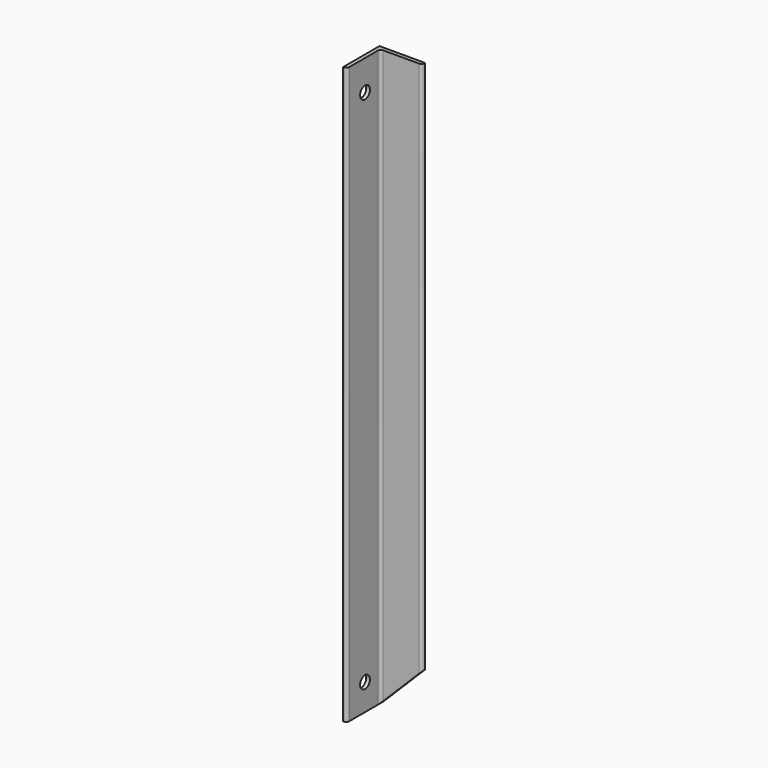
from build123d import *

# Parameters (mm, degrees)
F1_DEPTH = 482.6
F3_DEPTH = 76.201
F4_R     = 10.3124
F5_DEPTH = 76.201
F6_R     = 5.08


with BuildPart() as f1:
    # F0 (on Top) → F1 (new body, symmetric)
    with BuildSketch(Plane.XY):
        Polygon((0, 76.2), (0, 0), (6.35, 0), (6.35, 69.85), (76.2, 69.85), (76.2, 76.2), align=None)
    extrude(amount=F1_DEPTH, both=True)

    # F2 (on Front) → F3 (cut, through all)
    with BuildSketch(Plane.XZ):
        Polygon((84.518964, -404.431036), (6.35, -482.6), (84.518964, -482.6), align=None)
    extrude(amount=-F3_DEPTH, mode=Mode.SUBTRACT)

    # F4 (on Right) → F5 (cut, through all)
    with BuildSketch(Plane.YZ):
        with Locations((38.1, -438.15)):
            Circle(F4_R)
        with Locations((38.1, 431.8)):
            Circle(F4_R)
    extrude(amount=F5_DEPTH, mode=Mode.SUBTRACT)

    # F6
    f6_edges = [f1.edges().sort_by_distance(p)[0] for p in [
        (6.35, 69.85, 0),
        (76.2, 69.85, 34.925),
        (6.35, 0, 0),
    ]]
    fillet(f6_edges, radius=F6_R)


solid = f1.part
